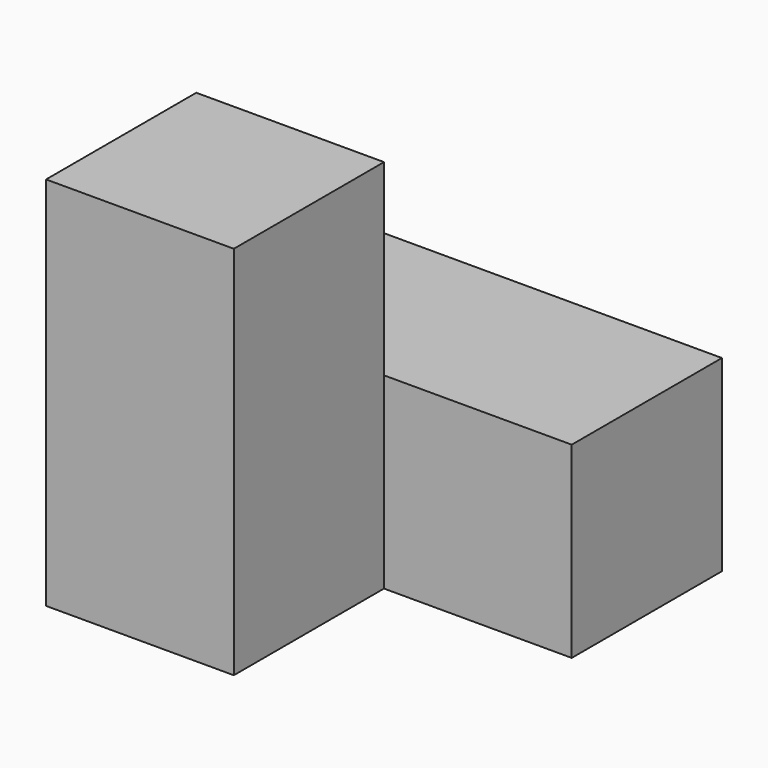
from build123d import *

# Parameters (mm, degrees)
F1_DEPTH = 10
F2_W     = 20
F2_H     = 10
F3_DEPTH = 10


with BuildPart() as f1:
    # F0 (on Front) → F1 (new body)
    with BuildSketch(Plane.XZ):
        Polygon((-10, 20), (-20, 20), (-20, 0), (-10, 0), (-10, 10), align=None)
    extrude(amount=F1_DEPTH)

    # F2 (on Front) → F3 (join)
    with BuildSketch(Plane.XZ):
        with Locations((-10, 5)):
            Rectangle(F2_W, F2_H)
    extrude(amount=-F3_DEPTH)


solid = f1.part
